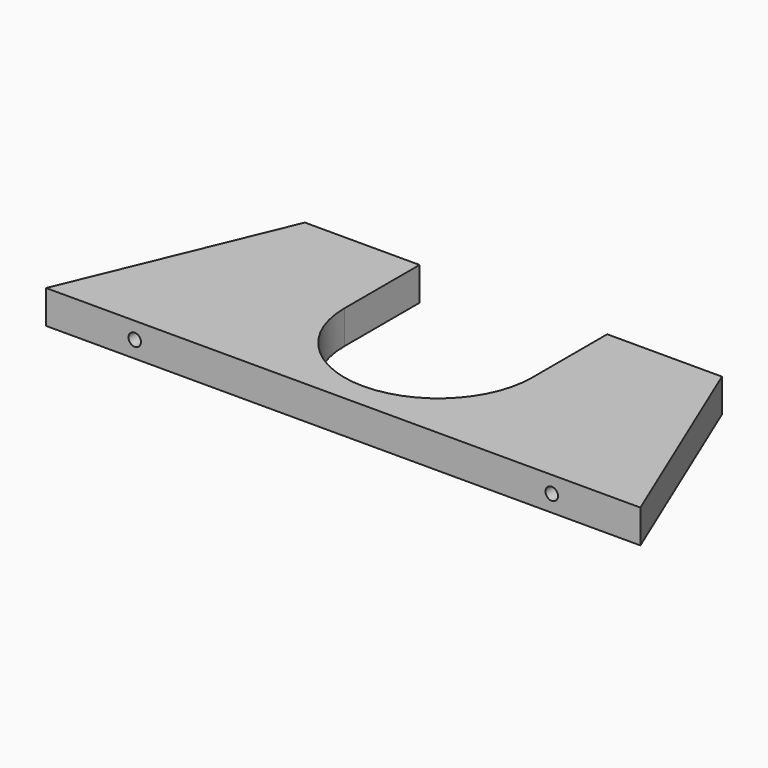
from build123d import *

# Parameters (mm, degrees)
F1_DEPTH = 8
F3_D     = 3
F3_DEPTH = 30
F3_TIP   = 0.9012909285


with BuildPart() as f1:
    # F0 (on Top) → F1 (new body)
    with BuildSketch(Plane.XY):
        with BuildLine():
            Line((25, 60), (3.75, 9))
            Line((3.75, 9), (146.25, 9))
            Line((146.25, 9), (125, 60))
            Line((125, 60), (97.5, 60))
            Line((97.5, 60), (97.5, 37.5))
            ThreePointArc((97.5, 37.5), (75, 15), (52.5, 37.5))
            Line((52.5, 37.5), (52.5, 60))
            Line((52.5, 60), (25, 60))
        make_face()
    extrude(amount=F1_DEPTH)

    # F3
    with Locations(Plane.XZ.offset(-9)):
        with Locations((25, 4), (125, 4)):
            Hole(F3_D / 2, depth=F3_DEPTH)
            with Locations((0, 0, -(F3_DEPTH + F3_TIP / 2))):  # 118° drill point
                Cone(0, F3_D / 2, F3_TIP, mode=Mode.SUBTRACT)


solid = f1.part
